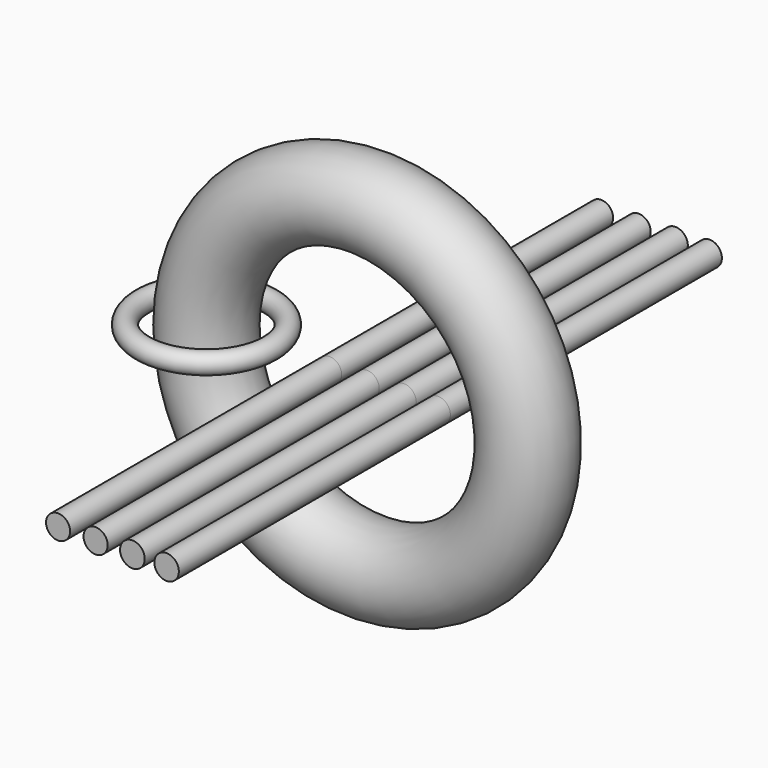
from build123d import *

# Parameters (mm, degrees)
F1_R     = 15.5468033034
F3_R     = 3.8224828709
F3_R_2   = 4.4922863486
F5_DEPTH = 127
F3_R_3   = 4.5108792424
F3_R_4   = 4.6205897927
F3_R_5   = 4.5782180449
F6_DEPTH = 127


with BuildPart() as f2:
    # F1 (on Top) → F2 (revolve)
    with BuildSketch(Plane.XY):
        with Locations((-60.136411339, 0)):
            Circle(F1_R)
    revolve(axis=Axis((0, 0, 0), (0, -1, 0)))


with BuildPart() as f4:
    # F3 (on Front) → F4 (revolve)
    with BuildSketch(Plane.XZ):
        with Locations((-36.3165028393, 0)):
            Circle(F3_R)
    revolve(axis=Axis((-60.136411339, 0, 0), (0, 0, 1)))


with BuildPart() as f5:
    # F3 (on Front) → F5 (new body)
    with BuildSketch(Plane.XZ):
        with Locations((-14.0415327623, 0)):
            Circle(F3_R_2)
    extrude(amount=F5_DEPTH)


with BuildPart() as f5b:
    # F3 (on Front) → F5, piece 2 (new body)
    with BuildSketch(Plane.XZ):
        Circle(F3_R_3)
    extrude(amount=F5_DEPTH)


with BuildPart() as f5c:
    # F3 (on Front) → F5, piece 3 (new body)
    with BuildSketch(Plane.XZ):
        with Locations((13.7688387185, 0)):
            Circle(F3_R_4)
    extrude(amount=F5_DEPTH)


with BuildPart() as f5d:
    # F3 (on Front) → F5, piece 4 (new body)
    with BuildSketch(Plane.XZ):
        with Locations((26.570443064, 0)):
            Circle(F3_R_5)
    extrude(amount=F5_DEPTH)


with BuildPart() as f6:
    # F3 (on Front) → F6 (new body)
    with BuildSketch(Plane.XZ):
        with Locations((-14.0415327623, 0)):
            Circle(F3_R_2)
    extrude(amount=-F6_DEPTH)


with BuildPart() as f6b:
    # F3 (on Front) → F6, piece 2 (new body)
    with BuildSketch(Plane.XZ):
        Circle(F3_R_3)
    extrude(amount=-F6_DEPTH)


with BuildPart() as f6c:
    # F3 (on Front) → F6, piece 3 (new body)
    with BuildSketch(Plane.XZ):
        with Locations((13.7688387185, 0)):
            Circle(F3_R_4)
    extrude(amount=-F6_DEPTH)


with BuildPart() as f6d:
    # F3 (on Front) → F6, piece 4 (new body)
    with BuildSketch(Plane.XZ):
        with Locations((26.570443064, 0)):
            Circle(F3_R_5)
    extrude(amount=-F6_DEPTH)


solid = Compound([f2.part, f4.part, f5.part, f5b.part, f5c.part, f5d.part, f6.part, f6b.part, f6c.part, f6d.part])
